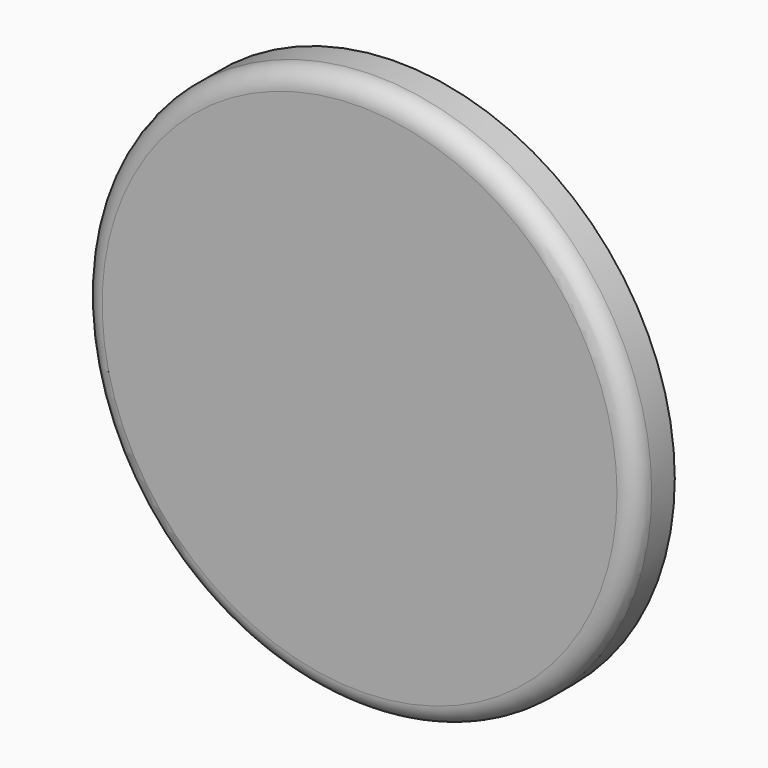
from build123d import *

# Parameters (mm, degrees)
F0_R     = 73.025
F1_DEPTH = 12.7
F2_R     = 5.08
F4_DEPTH = 0.0254


with BuildPart() as f1:
    # F0 (on Front) → F1 (new body)
    with BuildSketch(Plane.XZ):
        Circle(F0_R)
    extrude(amount=F1_DEPTH)

    # F2
    f2_edges = [f1.edges().sort_by_distance(p)[0] for p in [
        (-73.025, -12.7, 0),
    ]]
    fillet(f2_edges, radius=F2_R)

    # F3 (on face) → F4 (join)
    with BuildSketch(Plane(origin=(0, 0, 0), x_dir=(-1, 0, 0), z_dir=(0, 1, 0))):
        with BuildLine():
            ThreePointArc((-73.025, 0), (-70.485, -2.54), (-67.945, 0))
            ThreePointArc((-67.945, 0), (-70.485, 2.54), (-73.025, 0))
        make_face()
    extrude(amount=F4_DEPTH)


solid = f1.part
